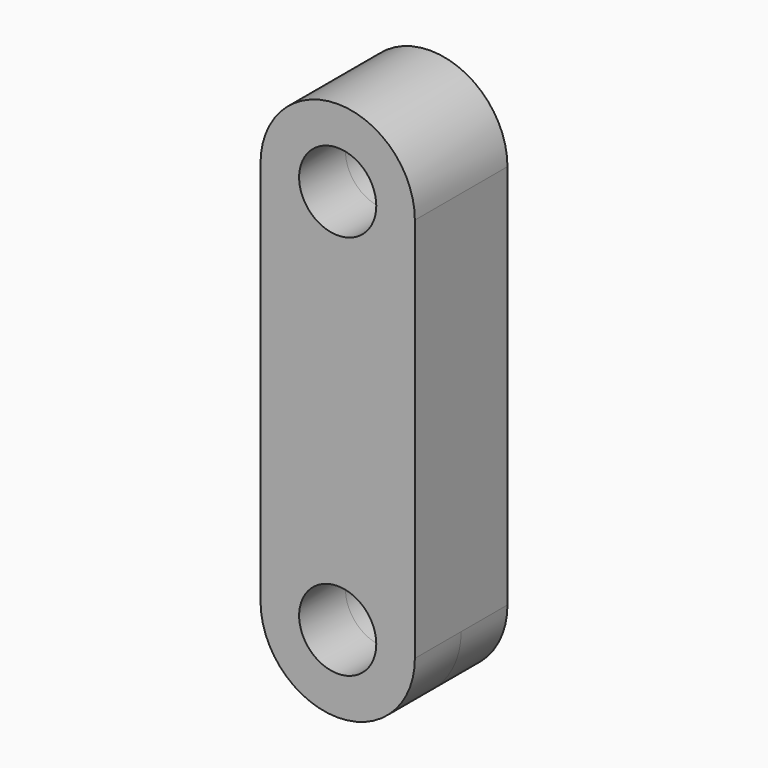
from build123d import *

# Parameters (mm, degrees)
F0_R     = 5
F1_DEPTH = 7.5


with BuildPart() as f1:
    # F0 (on Front) → F1 (new body, symmetric)
    with BuildSketch(Plane.XZ):
        with BuildLine():
            ThreePointArc((10, 25), (7.0710678119, 32.0710678119), (0, 35))
            ThreePointArc((0, 35), (-7.0710678119, 32.0710678119), (-10, 25))
            ThreePointArc((-10, 25), (0, 15), (10, 25))
        make_face()
        with Locations((0, 25)):
            Circle(F0_R, mode=Mode.SUBTRACT)
        with BuildLine():
            ThreePointArc((10, 25), (0, 15), (-10, 25))
            Line((-10, 25), (-10, -25))
            ThreePointArc((-10, -25), (0, -15), (10, -25))
            Line((10, -25), (10, 25))
        make_face()
        with BuildLine():
            ThreePointArc((10, -25), (0, -15), (-10, -25))
            ThreePointArc((-10, -25), (-7.0710678119, -32.0710678119), (0, -35))
            ThreePointArc((0, -35), (7.0710678119, -32.0710678119), (10, -25))
        make_face()
        with Locations((0, -25)):
            Circle(F0_R, mode=Mode.SUBTRACT)
    extrude(amount=F1_DEPTH, both=True)


solid = f1.part
